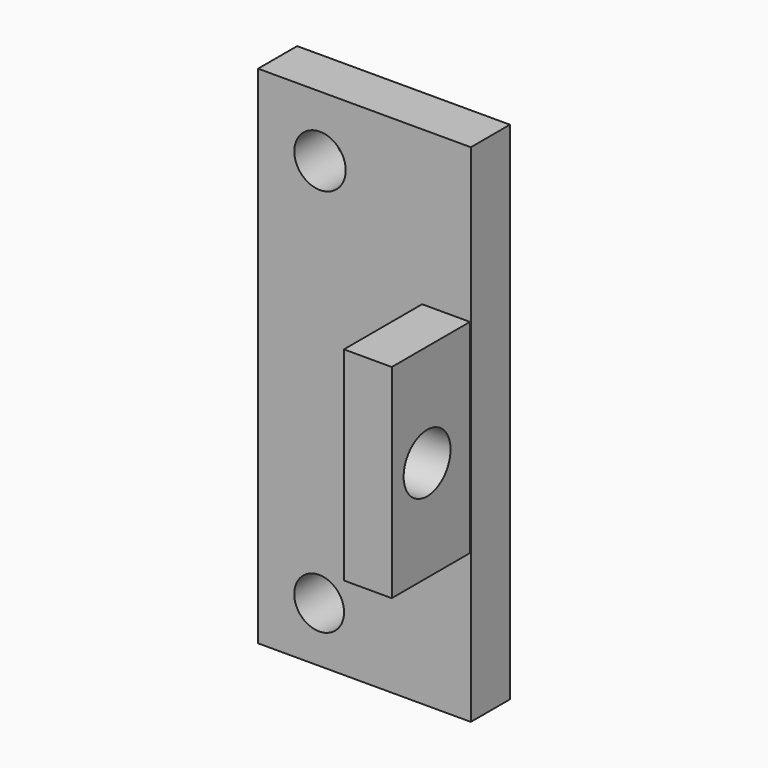
from build123d import *

# Parameters (mm, degrees)
SKETCH143_W     = 21.769744
SKETCH143_H     = 51.763626
SKETCH143_R     = 2.629917
SKETCH143_R_2   = 2.549682
PAD053_DEPTH    = 5
SKETCH142_W     = 4.89418
SKETCH142_H     = 20.822479
PAD052_DEPTH    = 10
SKETCH141_R     = 3
POCKET084_DEPTH = 5


with BuildPart() as part:
    # Sketch143 → Pad053 (new body)
    with BuildSketch(Plane(origin=(195, 362, 200), x_dir=(1, 0, 0), z_dir=(0, -1, 0))):
        with Locations((1.846756, 20.929451)):
            Rectangle(SKETCH143_W, SKETCH143_H)
        with Locations((-2.70076, 40.56488)):
            Circle(SKETCH143_R, mode=Mode.SUBTRACT)
        with Locations((-2.789749, 0.699631)):
            Circle(SKETCH143_R_2, mode=Mode.SUBTRACT)
    extrude(amount=PAD053_DEPTH)

    # Sketch142 → Pad052 (new body)
    with BuildSketch(Plane(origin=(195, 357, 200), x_dir=(1, 0, 0), z_dir=(0, -1, 0))):
        with Locations((10.193657, 20.639526)):
            Rectangle(SKETCH142_W, SKETCH142_H)
    extrude(amount=PAD052_DEPTH)

    # Sketch141 → Pocket084 (cut)
    with BuildSketch(Plane(origin=(202.746567, 362, 200), x_dir=(0, 0, -1), z_dir=(-1, 0, 0))):
        with Locations((-20.563114, 10.481458)):
            Circle(SKETCH141_R)
    extrude(amount=-POCKET084_DEPTH, mode=Mode.SUBTRACT)


solid = part.part
